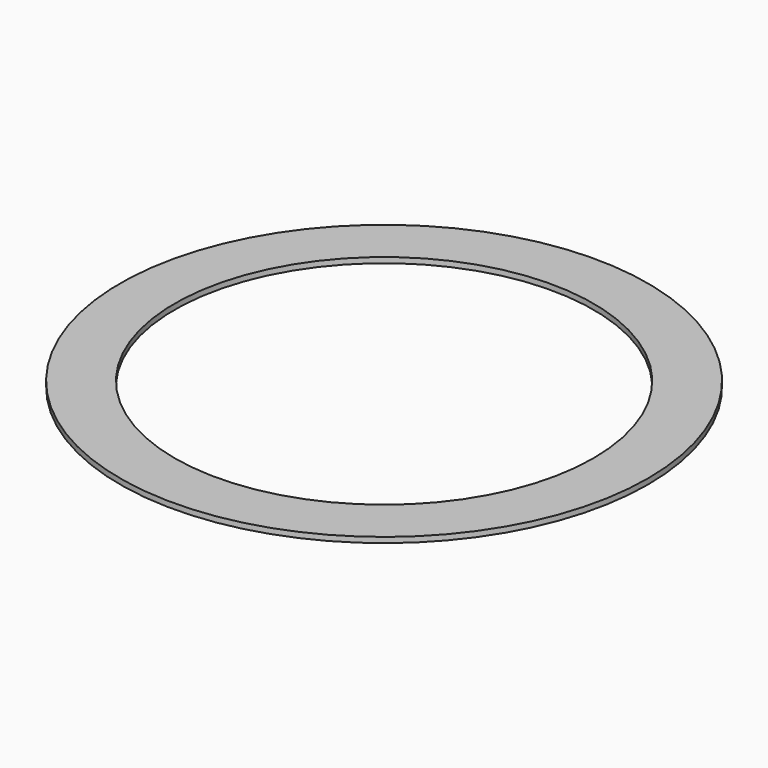
from build123d import *

# Parameters (mm, degrees)
CYLINDER004_R     = 38.4
CYLINDER004_DEPTH = 1
CYLINDER003_R     = 48.4
CYLINDER003_DEPTH = 1


with BuildPart() as top_wall_cutout:
    # Cylinder004 → Cylinder004 (new body)
    with BuildSketch(Plane.XY.offset(8)):
        Circle(CYLINDER004_R)
    extrude(amount=CYLINDER004_DEPTH)


with BuildPart() as top_flange:
    # Cylinder003 → Cylinder003 (new body)
    with BuildSketch(Plane.XY.offset(8)):
        Circle(CYLINDER003_R)
    extrude(amount=CYLINDER003_DEPTH)

    # Cut003: cut top_wall_cutout
    add(top_wall_cutout.part, mode=Mode.SUBTRACT)


solid = top_flange.part
